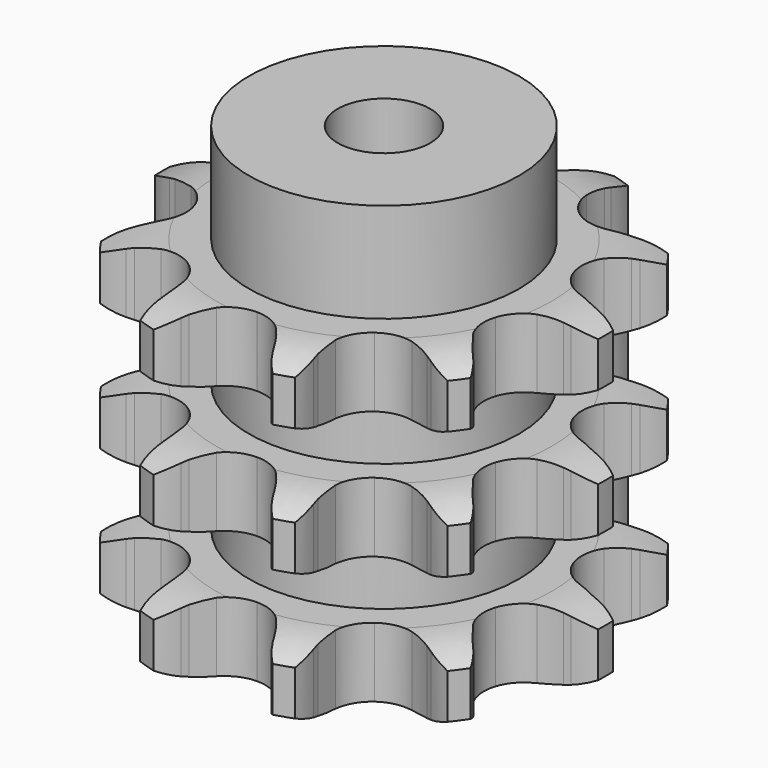
from build123d import *

# Parameters (mm, degrees)
PAD_DEPTH         = 42.1
SKETCH001_R       = 17.5
PAD001_DEPTH      = 55
SKETCH002_R       = 6
POCKET_DEPTH      = 0.001
POCKET_DEPTH_BACK = 55.001


with BuildPart() as part:
    # Sprocket → Pad (new body)
    with BuildSketch(Plane.XY):
        with BuildLine():
            ThreePointArc((-9.384236, 28.881708), (-7.411127, 27.404483), (-5.934887, 25.430638))
            Line((-5.934887, 25.430638), (-5.517872, 24.665778))
            ThreePointArc((-5.517872, 24.665778), (-4.763602, 23.444512), (-3.881849, 22.31185))
            ThreePointArc((-3.881849, 22.31185), (-2.132975, 21.005904), (0, 20.54279))
            ThreePointArc((0, 20.54279), (2.132975, 21.005904), (3.881849, 22.31185))
            ThreePointArc((3.881849, 22.31185), (4.763602, 23.444512), (5.517872, 24.665778))
            Line((5.517872, 24.665778), (5.934887, 25.430638))
            ThreePointArc((5.934887, 25.430638), (7.411127, 27.404483), (9.384236, 28.881708))
            ThreePointArc((9.384236, 28.881708), (10.112223, 26.526844), (10.14633, 24.062257))
            Line((10.14633, 24.062257), (10.034129, 23.198357))
            ThreePointArc((10.034129, 23.198357), (9.926503, 21.766984), (9.974095, 20.332359))
            ThreePointArc((9.974095, 20.332359), (10.621348, 18.247864), (12.074749, 16.619466))
            ThreePointArc((12.074749, 16.619466), (14.072573, 15.740402), (16.255058, 15.768972))
            Line((16.255058, 15.768972), (18.962233, 16.71171))
            ThreePointArc((18.962233, 16.71171), (19.352638, 16.905004), (19.749178, 17.085379))
            ThreePointArc((19.749178, 17.085379), (22.103679, 17.814541), (24.568248, 17.849877))
            ThreePointArc((24.568248, 17.849877), (23.773048, 15.516852), (22.351993, 13.502912))
            Line((22.351993, 13.502912), (21.753433, 12.869952))
            ThreePointArc((21.753433, 12.869952), (20.825022, 11.775208), (20.020273, 10.586598))
            ThreePointArc((20.020273, 10.586598), (19.318676, 8.519761), (19.537354, 6.348071))
            ThreePointArc((19.537354, 6.348071), (20.636927, 4.462602), (22.419388, 3.202883))
            Line((22.419388, 3.202883), (25.163665, 2.374337))
            ThreePointArc((25.163665, 2.374337), (25.593125, 2.30124), (26.019955, 2.214087))
            ThreePointArc((26.019955, 2.214087), (28.353376, 1.42005), (30.368025, 0))
            ThreePointArc((30.368025, 0), (28.353376, -1.42005), (26.019955, -2.214087))
            Line((26.019955, -2.214087), (25.163665, -2.374337))
            ThreePointArc((25.163665, -2.374337), (23.76909, -2.714298), (22.419388, -3.202883))
            ThreePointArc((22.419388, -3.202883), (20.636927, -4.462602), (19.537354, -6.348071))
            ThreePointArc((19.537354, -6.348071), (19.318676, -8.519761), (20.020273, -10.586598))
            Line((20.020273, -10.586598), (21.753433, -12.869952))
            ThreePointArc((21.753433, -12.869952), (22.057908, -13.18152), (22.351993, -13.502912))
            ThreePointArc((22.351993, -13.502912), (23.773048, -15.516852), (24.568248, -17.849877))
            ThreePointArc((24.568248, -17.849877), (22.103679, -17.814541), (19.749178, -17.085379))
            Line((19.749178, -17.085379), (18.962233, -16.71171))
            ThreePointArc((18.962233, -16.71171), (17.634174, -16.167034), (16.255058, -15.768972))
            ThreePointArc((16.255058, -15.768972), (14.072573, -15.740402), (12.074749, -16.619466))
            ThreePointArc((12.074749, -16.619466), (10.621348, -18.247864), (9.974095, -20.332359))
            Line((9.974095, -20.332359), (10.034129, -23.198357))
            ThreePointArc((10.034129, -23.198357), (10.09732, -23.629386), (10.14633, -24.062257))
            ThreePointArc((10.14633, -24.062257), (10.112223, -26.526844), (9.384236, -28.881708))
            ThreePointArc((9.384236, -28.881708), (7.411127, -27.404483), (5.934887, -25.430638))
            Line((5.934887, -25.430638), (5.517872, -24.665778))
            ThreePointArc((5.517872, -24.665778), (4.763602, -23.444512), (3.881849, -22.31185))
            ThreePointArc((3.881849, -22.31185), (2.132975, -21.005904), (0, -20.54279))
            ThreePointArc((0, -20.54279), (-2.132975, -21.005904), (-3.881849, -22.31185))
            Line((-3.881849, -22.31185), (-5.517872, -24.665778))
            ThreePointArc((-5.517872, -24.665778), (-5.720102, -25.051631), (-5.934887, -25.430638))
            ThreePointArc((-5.934887, -25.430638), (-7.411127, -27.404483), (-9.384236, -28.881708))
            ThreePointArc((-9.384236, -28.881708), (-10.112223, -26.526844), (-10.14633, -24.062257))
            Line((-10.14633, -24.062257), (-10.034129, -23.198357))
            ThreePointArc((-10.034129, -23.198357), (-9.926503, -21.766984), (-9.974095, -20.332359))
            ThreePointArc((-9.974095, -20.332359), (-10.621348, -18.247864), (-12.074749, -16.619466))
            ThreePointArc((-12.074749, -16.619466), (-14.072573, -15.740402), (-16.255058, -15.768972))
            Line((-16.255058, -15.768972), (-18.962233, -16.71171))
            ThreePointArc((-18.962233, -16.71171), (-19.352638, -16.905004), (-19.749178, -17.085379))
            ThreePointArc((-19.749178, -17.085379), (-22.103679, -17.814541), (-24.568248, -17.849877))
            ThreePointArc((-24.568248, -17.849877), (-23.773048, -15.516852), (-22.351993, -13.502912))
            Line((-22.351993, -13.502912), (-21.753433, -12.869952))
            ThreePointArc((-21.753433, -12.869952), (-20.825022, -11.775208), (-20.020273, -10.586598))
            ThreePointArc((-20.020273, -10.586598), (-19.318676, -8.519761), (-19.537354, -6.348071))
            ThreePointArc((-19.537354, -6.348071), (-20.636927, -4.462602), (-22.419388, -3.202883))
            Line((-22.419388, -3.202883), (-25.163665, -2.374337))
            ThreePointArc((-25.163665, -2.374337), (-25.593125, -2.30124), (-26.019955, -2.214087))
            ThreePointArc((-26.019955, -2.214087), (-28.353376, -1.42005), (-30.368025, 0))
            ThreePointArc((-30.368025, 0), (-28.353376, 1.42005), (-26.019955, 2.214087))
            Line((-26.019955, 2.214087), (-25.163665, 2.374337))
            ThreePointArc((-25.163665, 2.374337), (-23.76909, 2.714298), (-22.419388, 3.202883))
            ThreePointArc((-22.419388, 3.202883), (-20.636927, 4.462602), (-19.537354, 6.348071))
            ThreePointArc((-19.537354, 6.348071), (-19.318676, 8.519761), (-20.020273, 10.586598))
            Line((-20.020273, 10.586598), (-21.753433, 12.869952))
            ThreePointArc((-21.753433, 12.869952), (-22.057908, 13.18152), (-22.351993, 13.502912))
            ThreePointArc((-22.351993, 13.502912), (-23.773048, 15.516852), (-24.568248, 17.849877))
            ThreePointArc((-24.568248, 17.849877), (-22.103679, 17.814541), (-19.749178, 17.085379))
            Line((-19.749178, 17.085379), (-18.962233, 16.71171))
            ThreePointArc((-18.962233, 16.71171), (-17.634174, 16.167034), (-16.255058, 15.768972))
            ThreePointArc((-16.255058, 15.768972), (-14.072573, 15.740402), (-12.074749, 16.619466))
            ThreePointArc((-12.074749, 16.619466), (-10.621348, 18.247864), (-9.974095, 20.332359))
            Line((-9.974095, 20.332359), (-10.034129, 23.198357))
            ThreePointArc((-10.034129, 23.198357), (-10.09732, 23.629386), (-10.14633, 24.062257))
            ThreePointArc((-10.14633, 24.062257), (-10.112223, 26.526844), (-9.384236, 28.881708))
        make_face()
    extrude(amount=PAD_DEPTH)

    # Sketch → Groove (revolve, cut)
    with BuildSketch(Plane.XZ):
        with BuildLine():
            ThreePointArc((21.775762, 0), (25.35347, 0.405129), (28.75, 1.6))
            Line((28.75, 1.6), (28.75, 7.4))
            ThreePointArc((28.75, 7.4), (25.35347, 8.594871), (21.775762, 9))
            Line((17.5, 9), (21.775762, 9))
            Line((17.5, 9), (17.5, 16.55))
            Line((17.5, 16.55), (21.775762, 16.55))
            ThreePointArc((21.775762, 16.55), (25.35347, 16.955129), (28.75, 18.15))
            Line((28.75, 23.95), (28.75, 18.15))
            ThreePointArc((28.75, 23.95), (25.35347, 25.144871), (21.775762, 25.55))
            Line((17.5, 25.55), (21.775762, 25.55))
            Line((17.5, 33.1), (17.5, 25.55))
            Line((21.775762, 33.1), (17.5, 33.1))
            ThreePointArc((21.775762, 33.1), (25.35347, 33.505129), (28.75, 34.7))
            Line((28.75, 34.7), (28.75, 40.5))
            ThreePointArc((28.75, 40.5), (25.35347, 41.694871), (21.775762, 42.1))
            Line((21.775762, 42.1), (38.75, 42.1))
            Line((38.75, 42.1), (38.75, 0))
            Line((21.775762, 0), (38.75, 0))
        make_face()
    revolve(axis=Axis((0, 0, 0), (0, 0, 1)), mode=Mode.SUBTRACT)

    # Sketch001 → Pad001 (join)
    with BuildSketch(Plane.XY):
        Circle(SKETCH001_R)
    extrude(amount=PAD001_DEPTH)

    # Sketch002 → Pocket (cut, two sides)
    with BuildSketch(Plane.XY) as pocket_sk:
        Circle(SKETCH002_R)
    extrude(amount=-POCKET_DEPTH, mode=Mode.SUBTRACT)
    extrude(pocket_sk.sketch, amount=POCKET_DEPTH_BACK, mode=Mode.SUBTRACT)


solid = part.part
